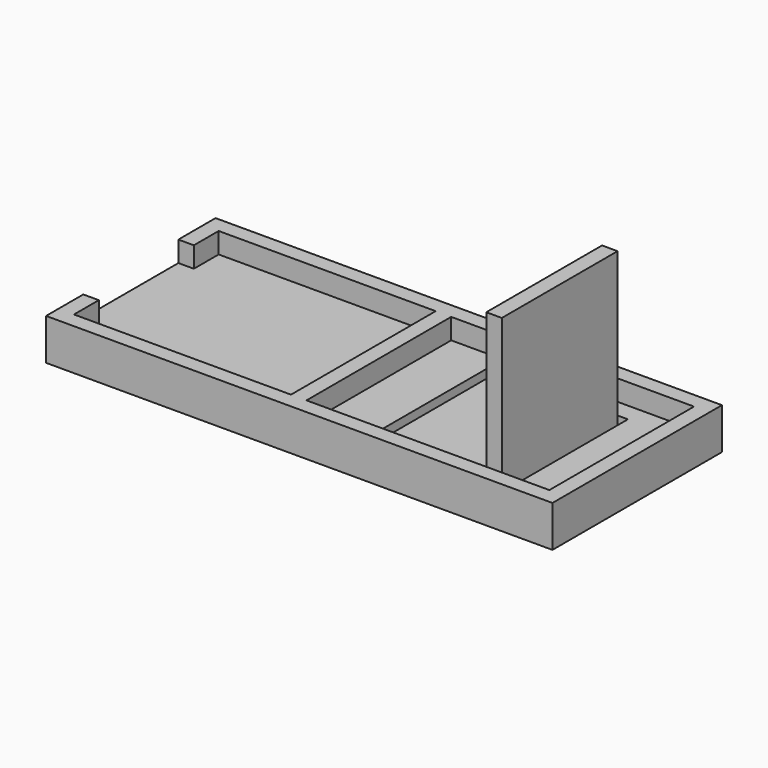
from build123d import *

# Parameters (mm, degrees)
SKETCH_W        = 49
SKETCH_H        = 20.5
PAD_DEPTH       = 4
POCKET_DEPTH    = 2
SKETCH002_W     = 23.5
SKETCH002_H     = 17.5
POCKET001_DEPTH = 2
SKETCH004_W     = 1
SKETCH004_H     = 14
POCKET002_DEPTH = 2
SKETCH005_W     = 1.5
SKETCH005_H     = 14
PAD001_DEPTH    = 14


with BuildPart() as part:
    # Sketch → Pad (new body)
    with BuildSketch(Plane.XY):
        with Locations((24.5, 10.25)):
            Rectangle(SKETCH_W, SKETCH_H)
    extrude(amount=PAD_DEPTH)

    # Sketch001 (on Face6 of Pad) → Pocket (cut)
    with BuildSketch(Plane.XY.offset(4)):
        Polygon((1.5, 19), (22.5, 19), (22.5, 1.5), (1.5, 1.5), (1.5, 4.5), (0, 4.5), (0, 16), (1.5, 16), align=None)
    extrude(amount=-POCKET_DEPTH, mode=Mode.SUBTRACT)

    # Sketch002 (on Face5 of Pocket) → Pocket001 (cut)
    with BuildSketch(Plane.XY.offset(4)):
        with Locations((35.75, 10.25)):
            Rectangle(SKETCH002_W, SKETCH002_H)
    extrude(amount=-POCKET001_DEPTH, mode=Mode.SUBTRACT)

    # Sketch004 (on Face19 of Pocket001) → Pocket002 (cut)
    with BuildSketch(Plane.XY.offset(2)):
        with Locations((29.5, 10.25)):
            Rectangle(SKETCH004_W, SKETCH004_H)
        with Locations((42, 10.25)):
            Rectangle(SKETCH004_W, SKETCH004_H)
    extrude(amount=-POCKET002_DEPTH, mode=Mode.SUBTRACT)

    # Sketch005 (on Face27 of Pocket002) → Pad001 (join)
    with BuildSketch(Plane.XY.offset(2)):
        with Locations((40.75, 10.25)):
            Rectangle(SKETCH005_W, SKETCH005_H)
    extrude(amount=PAD001_DEPTH)


solid = part.part
